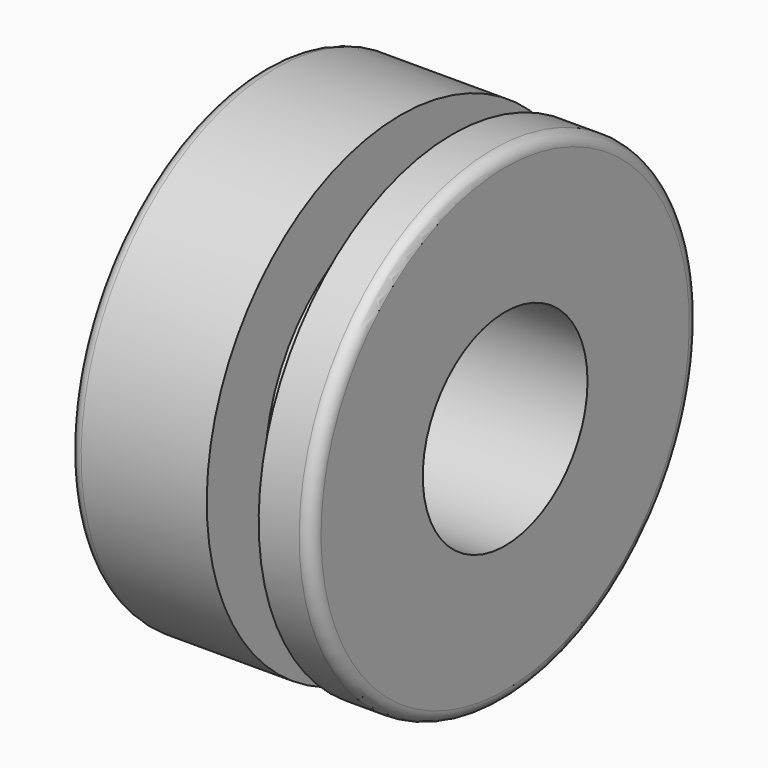
from build123d import *

# Parameters (mm, degrees)
F2_R          = 17
F3_DEPTH      = 254
F3_TAPER      = -3
F3_DEPTH_BACK = 40
F4_R          = 2
F5_R          = 2


with BuildPart() as f1:
    # F0 (on Front) → F1 (revolve)
    with BuildSketch(Plane.XZ):
        Polygon((-73.0582855594, 16.432710439), (-73.0582855594, -23.567289561), (-33.0582855594, -23.567289561), (-33.0582855594, 16.432710439), (-41.7476892471, 16.432710439), (-41.7476892471, 4.3930672109), (-50.3192096949, 4.3930672109), (-50.3192096949, 16.432710439), align=None)
    revolve(axis=Axis((-53.0582855594, 0, -23.567289561), (1, 0, 0)))

    # F2 (on face) → F3 (cut, two sides)
    with BuildSketch(Plane.YZ.offset(-33.0582855594)) as f3_sk:
        with Locations((0, -23.567289561)):
            Circle(F2_R)
    extrude(amount=F3_DEPTH, taper=F3_TAPER, mode=Mode.SUBTRACT)
    extrude(f3_sk.sketch, amount=-F3_DEPTH_BACK, mode=Mode.SUBTRACT)

    # F4
    f4_edges = [f1.edges().sort_by_distance(p)[0] for p in [
        (-33.058286, 0, -63.56729),
    ]]
    fillet(f4_edges, radius=F4_R)

    # F5
    f5_edges = [f1.edges().sort_by_distance(p)[0] for p in [
        (-73.058286, 0, -63.56729),
    ]]
    fillet(f5_edges, radius=F5_R)


solid = f1.part
